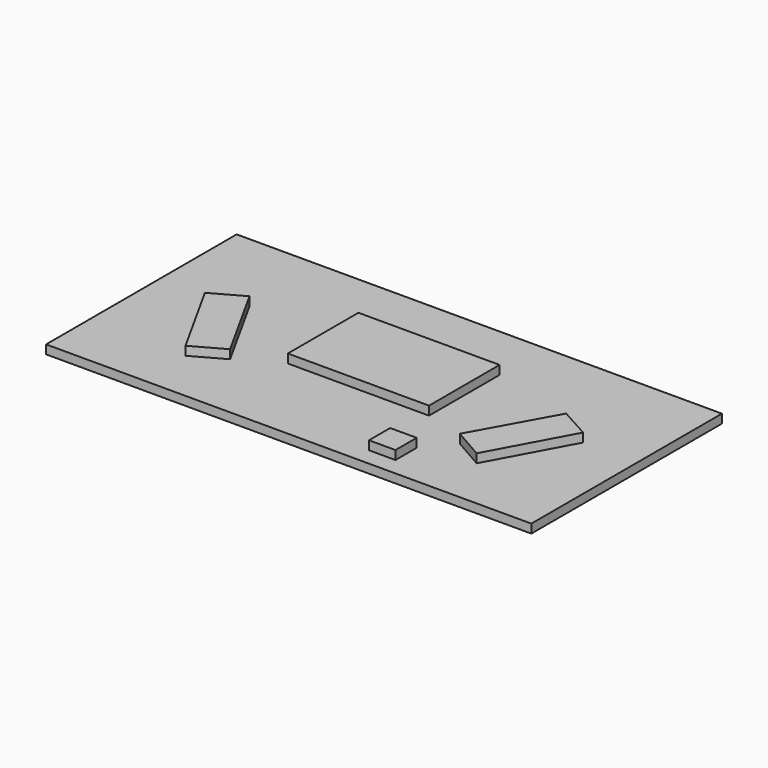
from build123d import *

# Parameters (mm, degrees)
F0_W     = 1397
F0_H     = 685.8
F1_DEPTH = 25.4
F2_W     = 406.4
F2_H     = 254
F3_DEPTH = 25.4


with BuildPart() as f1:
    # F0 (on Top) → F1 (new body)
    with BuildSketch(Plane.XY):
        Rectangle(F0_W, F0_H)
    extrude(amount=F1_DEPTH)


with BuildPart() as f3:
    # F2 (on face) → F3 (new body)
    with BuildSketch(Plane.XY.offset(25.4)):
        Polygon((-419.1, -190.5), (-330.2, -141.111111), (-457.2, 87.488889), (-546.1, 38.1), align=None)
        Polygon((455.333958, 86.466142), (330.2, -139.7), (419.1, -190.5), (542.750547, 38.1), align=None)
        with Locations((-12.7, 50.8)):
            Rectangle(F2_W, F2_H)
        Polygon((228.6, -254), (190.5, -292.1), (266.7, -292.1), align=None)
        Polygon((190.5, -215.9), (190.5, -292.1), (228.6, -254), align=None)
        Polygon((228.6, -254), (266.7, -292.1), (266.7, -215.9), align=None)
        Polygon((266.7, -215.9), (190.5, -215.9), (228.6, -254), align=None)
    extrude(amount=F3_DEPTH)


solid = Compound([f1.part, f3.part])
